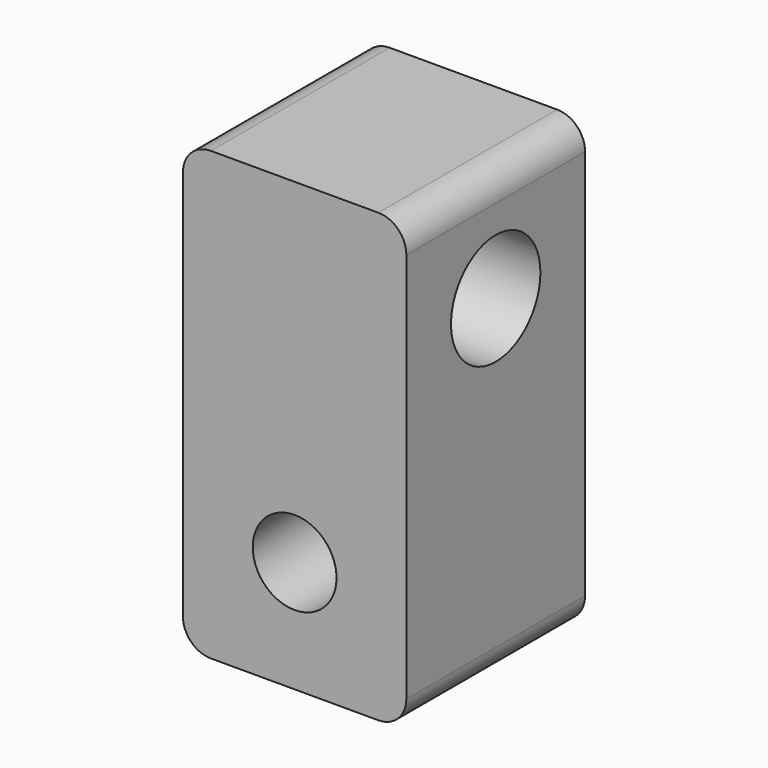
from build123d import *

# Parameters (mm, degrees)
F1_DEPTH = 25.4
F2_R     = 6.35
F3_DEPTH = 25.4
F4_R     = 4.7625
F5_DEPTH = 25.4


with BuildPart() as f1:
    # F0 (on Front) → F1 (new body)
    with BuildSketch(Plane.XZ):
        with BuildLine():
            ThreePointArc((-20.750085, -26.389282), (-19.820149, -28.634346), (-17.575085, -29.564282))
            Line((-17.575085, -29.564282), (1.474915, -29.564282))
            ThreePointArc((1.474915, -29.564282), (3.719979, -28.634346), (4.649915, -26.389282))
            Line((4.649915, -26.389282), (4.649915, 18.060718))
            ThreePointArc((4.649915, 18.060718), (3.719979, 20.305782), (1.474915, 21.235718))
            Line((1.474915, 21.235718), (-17.575085, 21.235718))
            ThreePointArc((-17.575085, 21.235718), (-19.820149, 20.305782), (-20.750085, 18.060718))
            Line((-20.750085, 18.060718), (-20.750085, -26.389282))
        make_face()
    extrude(amount=F1_DEPTH)

    # F2 (on face) → F3 (cut)
    with BuildSketch(Plane.YZ.offset(4.649915)):
        with Locations((-12.7, 8.535718)):
            Circle(F2_R)
    extrude(amount=-F3_DEPTH, mode=Mode.SUBTRACT)

    # F4 (on face) → F5 (cut)
    with BuildSketch(Plane(origin=(0, 0, 0), x_dir=(-1, 0, 0), z_dir=(0, 1, 0))):
        with Locations((8.050085, -16.864282)):
            Circle(F4_R)
    extrude(amount=-F5_DEPTH, mode=Mode.SUBTRACT)


solid = f1.part
